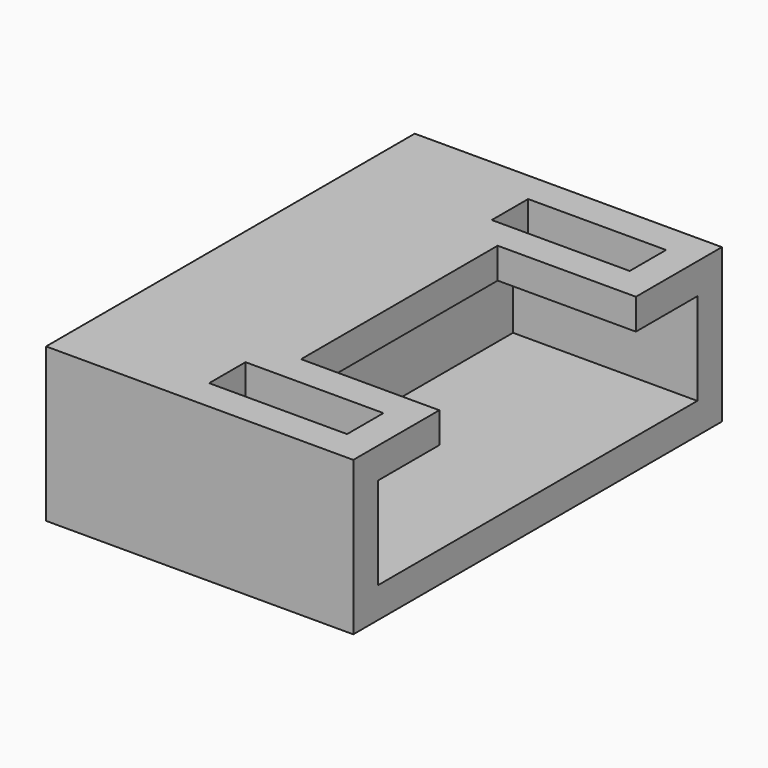
from build123d import *

# Parameters (mm, degrees)
SKETCH019_W     = 15
SKETCH019_H     = 5
PAD007_DEPTH    = 10
SKETCH015_W     = 13
SKETCH015_H     = 3
POCKET007_DEPTH = 6
SKETCH017_W     = 8
SKETCH017_H     = 1
POCKET008_DEPTH = 4.5
SKETCH020_W     = 1.48
SKETCH020_H     = 4.49
POCKET009_DEPTH = 2


with BuildPart() as part:
    # Sketch019 → Pad007 (new body)
    with BuildSketch(Plane.YZ):
        with Locations((0, 2.5)):
            Rectangle(SKETCH019_W, SKETCH019_H)
    extrude(amount=PAD007_DEPTH)

    # Sketch015 (on Face6 of Pad007) → Pocket007 (cut)
    with BuildSketch(Plane.YZ.offset(10)):
        with Locations((0, 2.5)):
            Rectangle(SKETCH015_W, SKETCH015_H)
    extrude(amount=-POCKET007_DEPTH, mode=Mode.SUBTRACT)

    # Sketch017 (on Face5 of Pocket007) → Pocket008 (cut)
    with BuildSketch(Plane.YZ.offset(10)):
        with Locations((0, 4.5)):
            Rectangle(SKETCH017_W, SKETCH017_H)
    extrude(amount=-POCKET008_DEPTH, mode=Mode.SUBTRACT)

    # Sketch020 (on Face6 of Pocket008) → Pocket009 (cut)
    with BuildSketch(Plane(origin=(0, 0, 5), x_dir=(0, -1, 0), z_dir=(0, 0, 1))):
        with Locations((-5.75, 6.745)):
            Rectangle(SKETCH020_W, SKETCH020_H)
        with Locations((5.75, 6.745)):
            Rectangle(SKETCH020_W, SKETCH020_H)
    extrude(amount=-POCKET009_DEPTH, mode=Mode.SUBTRACT)


solid = part.part
